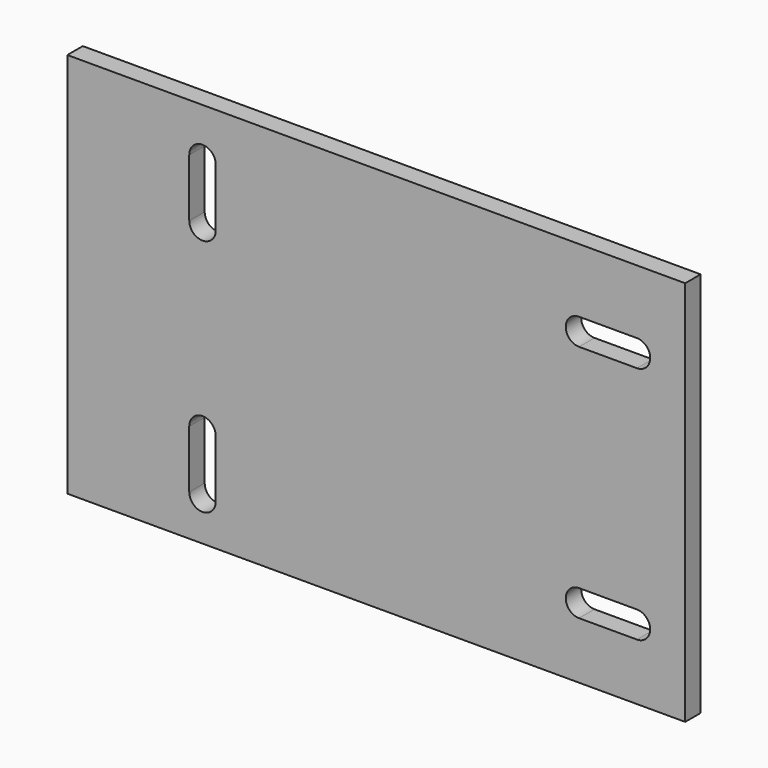
from build123d import *

# Parameters (mm, degrees)
F0_W     = 203.2
F0_H     = 127
F1_DEPTH = 3.175
F3_DEPTH = 25.4


with BuildPart() as f1:
    # F0 (on Front) → F1 (new body, symmetric)
    with BuildSketch(Plane.XZ):
        Rectangle(F0_W, F0_H)
    extrude(amount=F1_DEPTH, both=True)

    # F2 (on face) → F3 (cut)
    with BuildSketch(Plane.XZ.offset(3.175)):
        with BuildLine():
            ThreePointArc((-52.7939, 47.625), (-57.15, 51.9811), (-61.5061, 47.625))
            Line((-61.5061, 47.625), (-61.5061, 28.575))
            ThreePointArc((-61.5061, 28.575), (-57.15, 24.2189), (-52.7939, 28.575))
            Line((-52.7939, 28.575), (-52.7939, 47.625))
        make_face()
        with BuildLine():
            ThreePointArc((-52.7939, -30.9372), (-57.15, -26.5811), (-61.5061, -30.9372))
            Line((-61.5061, -30.9372), (-61.5061, -49.9872))
            ThreePointArc((-61.5061, -49.9872), (-57.15, -54.3433), (-52.7939, -49.9872))
            Line((-52.7939, -49.9872), (-52.7939, -30.9372))
        make_face()
        with BuildLine():
            ThreePointArc((66.675, 42.4561), (62.3189, 38.1), (66.675, 33.7439))
            Line((66.675, 33.7439), (85.725, 33.7439))
            ThreePointArc((85.725, 33.7439), (90.0811, 38.1), (85.725, 42.4561))
            Line((85.725, 42.4561), (66.675, 42.4561))
        make_face()
        with BuildLine():
            ThreePointArc((66.675, -36.1061), (62.3189, -40.4622), (66.675, -44.8183))
            Line((66.675, -44.8183), (85.725, -44.8183))
            ThreePointArc((85.725, -44.8183), (90.0811, -40.4622), (85.725, -36.1061))
            Line((85.725, -36.1061), (66.675, -36.1061))
        make_face()
    extrude(amount=-F3_DEPTH, mode=Mode.SUBTRACT)


solid = f1.part
